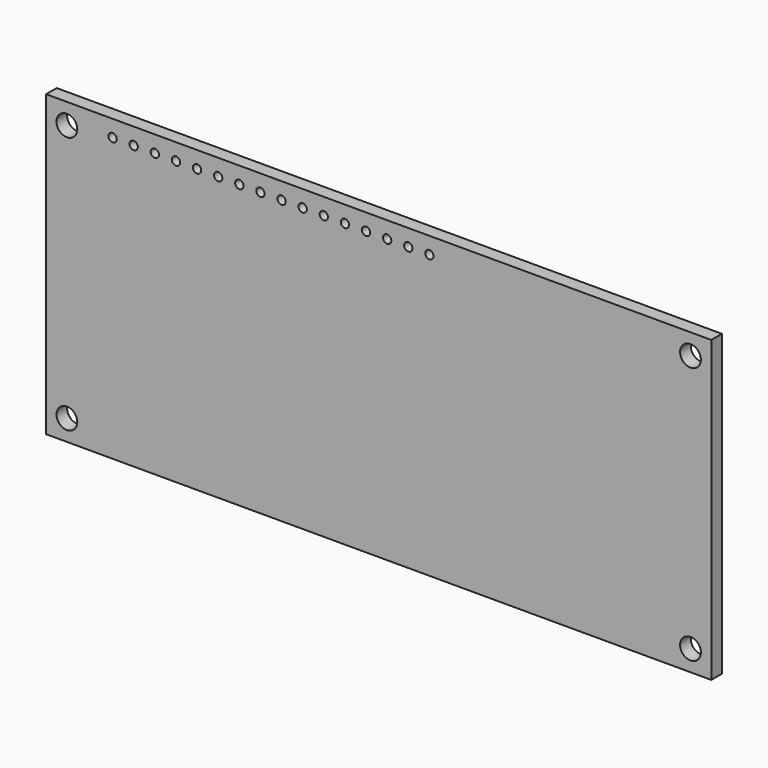
from build123d import *

# Parameters (mm, degrees)
CYLINDER010_R     = 0.5
CYLINDER010_DEPTH = 2
ARRAY004_X_COUNT  = 16
ARRAY004_X_PITCH  = 2.54
CYLINDER009_R     = 1.25
CYLINDER009_DEPTH = 2
ARRAY003_X_COUNT  = 2
ARRAY003_X_PITCH  = 75
ARRAY003_Z_COUNT  = 2
ARRAY003_Z_PITCH  = 31
BOX015_W          = 80
BOX015_H          = 1.6
BOX015_DEPTH      = 36


with BuildPart() as array004:
    # Cylinder010 → Cylinder010 (new body)
    with BuildSketch(Plane(origin=(8, 1.8, 34), x_dir=(1, 0, 0), z_dir=(0, -1, 0))):
        Circle(CYLINDER010_R)
    extrude(amount=CYLINDER010_DEPTH)

    # Array004 X: Array004 ×16


with BuildPart() as array004_1:
    add(array004.part)
    with Locations(*[(i * ARRAY004_X_PITCH, 0, 0) for i in range(1, ARRAY004_X_COUNT)]):
        add(array004.part)


with BuildPart() as array:
    # Cylinder009 → Cylinder009 (new body)
    with BuildSketch(Plane(origin=(2.5, 1.8, 2.5), x_dir=(1, 0, 0), z_dir=(0, -1, 0))):
        Circle(CYLINDER009_R)
    extrude(amount=CYLINDER009_DEPTH)

    # Array003 X: Array ×2


with BuildPart() as array_1:
    add(array.part)
    with Locations(*[(i * ARRAY003_X_PITCH, 0, 0) for i in range(1, ARRAY003_X_COUNT)]):
        add(array.part)

    # Array003 Z: Array ×2


with BuildPart() as array_2:
    add(array_1.part)
    with Locations(*[(0, 0, i * ARRAY003_Z_PITCH) for i in range(1, ARRAY003_Z_COUNT)]):
        add(array_1.part)


with BuildPart() as pcb:
    # Box015 → Box015 (new body)
    with BuildSketch(Plane.XY):
        with Locations((40, 0.8)):
            Rectangle(BOX015_W, BOX015_H)
    extrude(amount=BOX015_DEPTH)

    # Cut001: cut Array
    add(array_2.part, mode=Mode.SUBTRACT)

    # Cut002: cut Array004
    add(array004_1.part, mode=Mode.SUBTRACT)


solid = pcb.part
